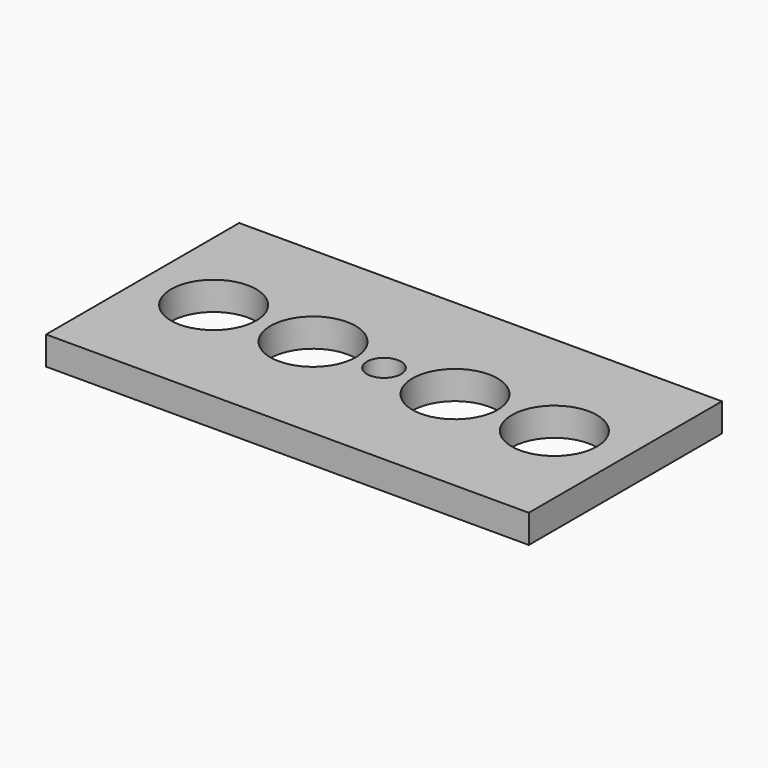
from build123d import *

# Parameters (mm, degrees)
F0_W     = 170
F0_H     = 85
F1_DEPTH = 10
F2_R     = 15
F2_R_2   = 6
F3_DEPTH = 10.001


with BuildPart() as f1:
    # F0 (on Top) → F1 (new body)
    with BuildSketch(Plane.XY):
        with Locations((-1.72445, -4.523617)):
            Rectangle(F0_W, F0_H)
    extrude(amount=F1_DEPTH)

    # F2 (on face) → F3 (cut, through all)
    with BuildSketch(Plane.XY.offset(10)):
        with Locations((-61.72445, -4.523617)):
            Circle(F2_R)
        with Locations((-26.72445, -4.523617)):
            Circle(F2_R)
        with Locations((-1.72445, -4.523617)):
            Circle(F2_R_2)
        with Locations((23.27555, -4.523617)):
            Circle(F2_R)
        with Locations((58.27555, -4.523617)):
            Circle(F2_R)
    extrude(amount=-F3_DEPTH, mode=Mode.SUBTRACT)


solid = f1.part
